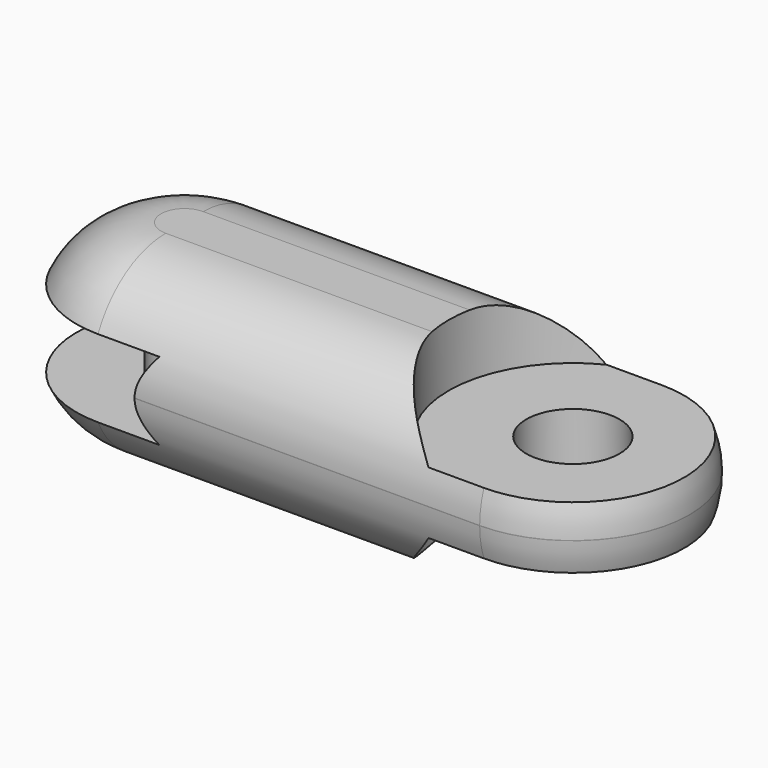
from build123d import *

# Parameters (mm, degrees)
PAD_DEPTH       = 6
FILLET_R        = 5.99
SKETCH001_R     = 8
POCKET_DEPTH    = 2.5
SKETCH002_R     = 8
POCKET001_DEPTH = 4
SKETCH003_R     = 8
POCKET002_DEPTH = 4
SKETCH004_R     = 3
POCKET003_DEPTH = 4
SKETCH005_R     = 2
PAD001_DEPTH    = 5


with BuildPart() as part:
    # Sketch → Pad (new body, symmetric)
    with BuildSketch(Plane.XY):
        with BuildLine():
            ThreePointArc((0, 7.5), (-7.5, 0), (0, -7.5))
            Line((0, -7.5), (25, -7.5))
            ThreePointArc((25, -7.5), (32.5, 0), (25, 7.5))
            Line((25, 7.5), (0, 7.5))
        make_face()
    extrude(amount=PAD_DEPTH, both=True)

    # Fillet
    fillet_edges = [part.edges().sort_by_distance(p)[0] for p in [
        (-7.5, 0, 6),
        (12.5, -7.5, 6),
        (12.5, 7.5, 6),
        (32.5, 0, 6),
        (12.5, -7.5, -6),
        (-7.5, 0, -6),
        (32.5, 0, -6),
        (12.5, 7.5, -6),
    ]]
    fillet(fillet_edges, radius=FILLET_R)

    # Sketch001 → Pocket (cut, symmetric)
    with BuildSketch(Plane.XY):
        Circle(SKETCH001_R)
    extrude(amount=POCKET_DEPTH, both=True, mode=Mode.SUBTRACT)

    # Sketch002 → Pocket001 (cut)
    with BuildSketch(Plane.XY.offset(2)):
        with Locations((25, 0)):
            Circle(SKETCH002_R)
    extrude(amount=POCKET001_DEPTH, mode=Mode.SUBTRACT)

    # Sketch003 → Pocket002 (cut)
    with BuildSketch(Plane.XY.offset(-2)):
        with Locations((25, 0)):
            Circle(SKETCH003_R)
    extrude(amount=-POCKET002_DEPTH, mode=Mode.SUBTRACT)

    # Sketch004 (on Face17 of Pocket002) → Pocket003 (cut)
    with BuildSketch(Plane.XY.offset(2)):
        with Locations((25, 0)):
            Circle(SKETCH004_R)
    extrude(amount=-POCKET003_DEPTH, mode=Mode.SUBTRACT)

    # Sketch005 (on Face6 of Pocket003) → Pad001 (join)
    with BuildSketch(Plane.XY.offset(-2.5)):
        Circle(SKETCH005_R)
    extrude(amount=PAD001_DEPTH)


solid = part.part
